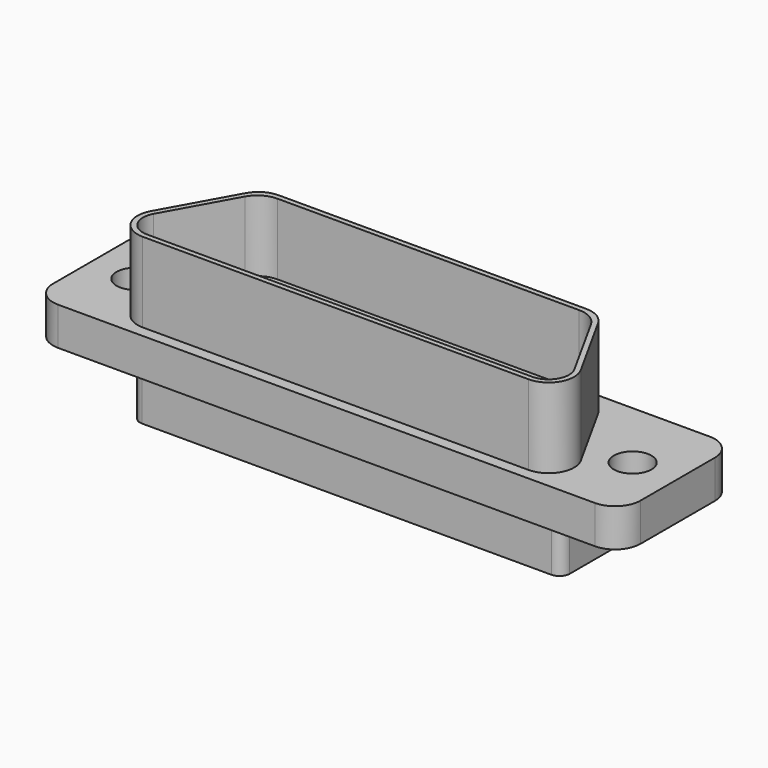
from build123d import *

# Parameters (mm, degrees)
F0_R     = 1.1684
F1_DEPTH = 1.1811
F3_DEPTH = 4.953
F5_DEPTH = 3.4798
F7_DEPTH = 4.4069


with BuildPart() as f1:
    # F0 (on Top) → F1 (new body, symmetric)
    with BuildSketch(Plane.XY):
        with BuildLine():
            Line((16.6497, 4.4577), (-16.6497, 4.4577))
            ThreePointArc((-16.6497, 4.4577), (-17.763252, 3.996452), (-18.2245, 2.8829))
            Line((-18.2245, 2.8829), (-18.2245, -2.8829))
            ThreePointArc((-18.2245, -2.8829), (-17.763252, -3.996452), (-16.6497, -4.4577))
            Line((-16.6497, -4.4577), (16.6497, -4.4577))
            ThreePointArc((16.6497, -4.4577), (17.763252, -3.996452), (18.2245, -2.8829))
            Line((18.2245, -2.8829), (18.2245, 2.8829))
            ThreePointArc((18.2245, 2.8829), (17.763252, 3.996452), (16.6497, 4.4577))
        make_face()
        with Locations((-15.4305, 0)):
            Circle(F0_R, mode=Mode.SUBTRACT)
        with Locations((15.4305, 0)):
            Circle(F0_R, mode=Mode.SUBTRACT)
    extrude(amount=F1_DEPTH, both=True)

    # F2 (on face) → F3 (join)
    with BuildSketch(Plane.XY.offset(1.1811)):
        with BuildLine():
            Line((-11.96962, -3.7592), (11.971078, -3.7592))
            ThreePointArc((11.971078, -3.7592), (13.327971, -2.983671), (13.348429, -1.420922))
            Line((13.348429, -1.420922), (10.926763, 2.947878))
            ThreePointArc((10.926763, 2.947878), (10.348684, 3.541294), (9.549412, 3.7592))
            Line((9.549412, 3.7592), (-9.547955, 3.7592))
            ThreePointArc((-9.547955, 3.7592), (-10.347226, 3.541294), (-10.925306, 2.947878))
            Line((-10.925306, 2.947878), (-13.346971, -1.420922))
            ThreePointArc((-13.346971, -1.420922), (-13.326514, -2.983671), (-11.96962, -3.7592))
        make_face()
    extrude(amount=F3_DEPTH)

    # F4 (on face) → F5 (join)
    with BuildSketch(Plane(origin=(0, 0, -1.1811), x_dir=(1, 0, 0), z_dir=(0, 0, -1))):
        with BuildLine():
            Line((12.7, 2.8956), (-12.7, 2.8956))
            ThreePointArc((-12.7, 2.8956), (-13.149013, 2.709613), (-13.335, 2.2606))
            Line((-13.335, 2.2606), (-13.335, -2.2606))
            ThreePointArc((-13.335, -2.2606), (-13.149013, -2.709613), (-12.7, -2.8956))
            Line((-12.7, -2.8956), (12.7, -2.8956))
            ThreePointArc((12.7, -2.8956), (13.149013, -2.709613), (13.335, -2.2606))
            Line((13.335, -2.2606), (13.335, 2.2606))
            ThreePointArc((13.335, 2.2606), (13.149013, 2.709613), (12.7, 2.8956))
        make_face()
    extrude(amount=F5_DEPTH)

    # F6 (on face) → F7 (cut)
    with BuildSketch(Plane.XY.offset(6.1341)):
        with BuildLine():
            Line((9.36239, 3.4417), (-9.360933, 3.4417))
            ThreePointArc((-9.360933, 3.4417), (-10.160204, 3.223794), (-10.738284, 2.630378))
            Line((-10.738284, 2.630378), (-13.058827, -1.555992))
            ThreePointArc((-13.058827, -1.555992), (-13.042329, -2.816274), (-11.94806, -3.4417))
            Line((-11.94806, -3.4417), (11.949517, -3.4417))
            ThreePointArc((11.949517, -3.4417), (13.043786, -2.816274), (13.060284, -1.555992))
            Line((13.060284, -1.555992), (10.739742, 2.630378))
            ThreePointArc((10.739742, 2.630378), (10.161662, 3.223794), (9.36239, 3.4417))
        make_face()
    extrude(amount=-F7_DEPTH, mode=Mode.SUBTRACT)


solid = f1.part
